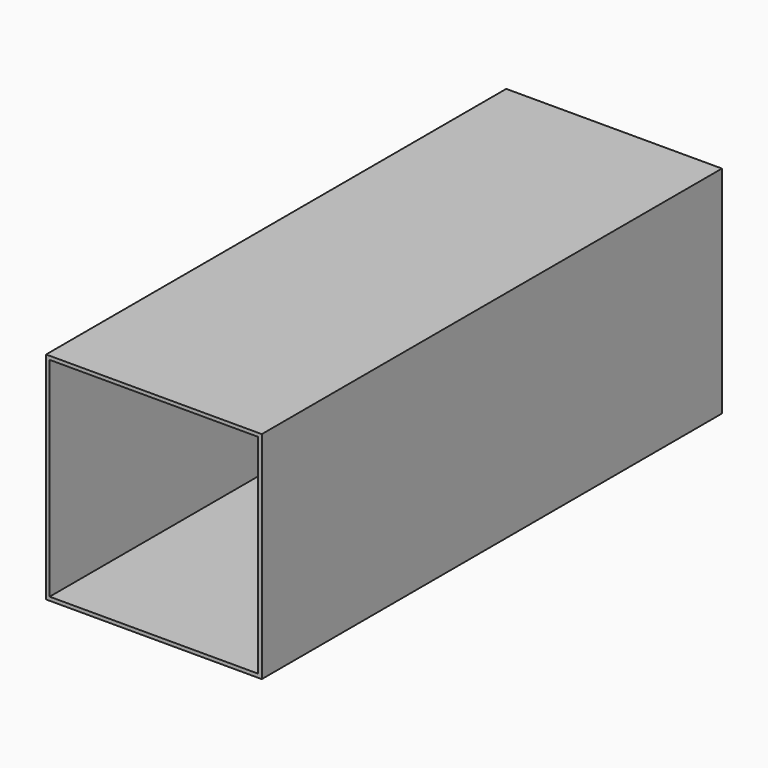
from build123d import *

# Parameters (mm, degrees)
F0_W     = 76.2
F0_H     = 76.2
F1_DEPTH = 609.6
F3_DEPTH = 914.4
F4_DEPTH = 304.8
F5_DEPTH = 508
F6_DEPTH = 381
F7_DEPTH = 177.8


with BuildPart() as f1:
    # F0 (on Front) → F1 (new body)
    with BuildSketch(Plane.XZ):
        with Locations((-79.1539917648, 51.4746750653)):
            Rectangle(F0_W, F0_H)
    extrude(amount=F1_DEPTH)

    # F2 (on face) → F3 (cut)
    with BuildSketch(Plane.XZ.offset(609.6)):
        Polygon((-42.3204526305, 88.3055701852), (-98.6881405115, 88.3055701852), (-115.9909814596, 88.3055701852), (-115.9909814596, 14.655277133), (-42.3204526305, 14.655277133), align=None)
    extrude(amount=-F3_DEPTH, mode=Mode.SUBTRACT)

    # F4 (add): a face of the model
    f4_faces = [f1.faces().sort_by_distance(p)[0] for p in [
        (-42.1316224993, -609.6, 51.4746750653),
    ]]
    extrude(f4_faces, amount=F4_DEPTH)

    # F5 (cut): a face of the model
    f5_faces = [f1.faces().sort_by_distance(p)[0] for p in [
        (-42.1316224993, 0, 51.4746750653),
    ]]
    extrude(f5_faces, amount=-F5_DEPTH, mode=Mode.SUBTRACT)

    # F6 (cut): a face of the model
    f6_faces = [f1.faces().sort_by_distance(p)[0] for p in [
        (-42.1316224993, -508, 51.4746750653),
    ]]
    extrude(f6_faces, amount=-F6_DEPTH, mode=Mode.SUBTRACT)

    # F7 (add): a face of the model
    f7_faces = [f1.faces().sort_by_distance(p)[0] for p in [
        (-42.1316224993, -889, 51.4746750653),
    ]]
    extrude(f7_faces, amount=F7_DEPTH)


solid = f1.part
